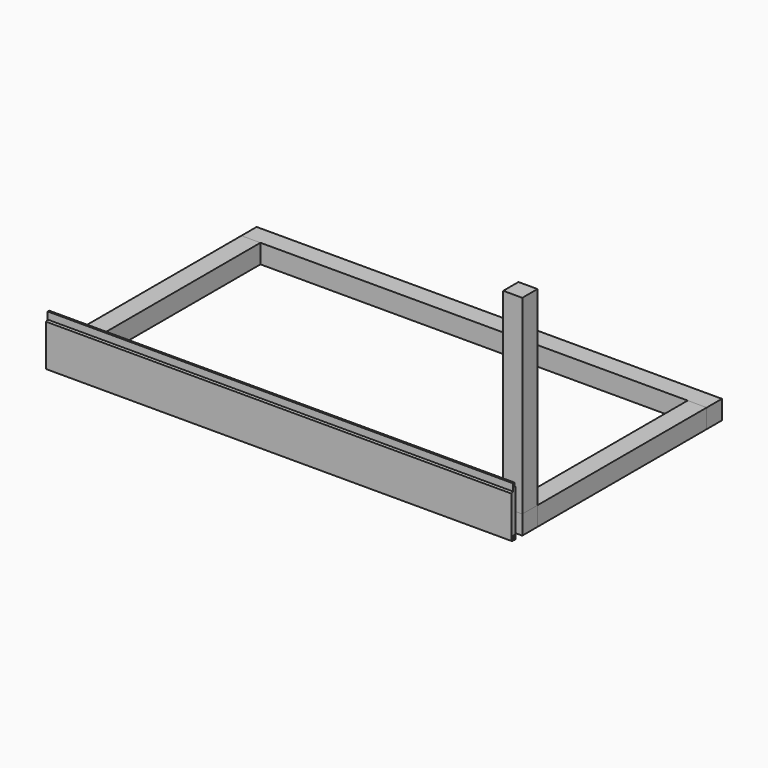
from build123d import *

# Parameters (mm, degrees)
F0_W      = 45
F0_H      = 45
F1_DEPTH  = 500
F2_W      = 45
F2_H      = 45
F3_DEPTH  = 1100
F5_W      = 45
F5_H      = 45
F6_DEPTH  = 1100
F9_W      = 45
F9_H      = 45
F10_DEPTH = 450
F12_DEPTH = 1100


with BuildPart() as f1:
    # F0 (on Front) → F1 (new body)
    with BuildSketch(Plane.XZ):
        with Locations((-22.5, -22.5)):
            Rectangle(F0_W, F0_H)
    extrude(amount=-F1_DEPTH)


with BuildPart() as f3:
    # F2 (on face) → F3 (new body)
    with BuildSketch(Plane.XY):
        with Locations((-22.5, -22.5)):
            Rectangle(F2_W, F2_H)
    extrude(amount=F3_DEPTH)


with BuildPart() as f6:
    # F5 (on Right) → F6 (new body)
    with BuildSketch(Plane.YZ):
        with Locations((-22.5, -22.5)):
            Rectangle(F5_W, F5_H)
    extrude(amount=-F6_DEPTH)


with BuildPart() as f7_1:
    # F7: copy of F6
    add(f6.part.moved(Location((0, 545, 0))))


with BuildPart() as f8_1:
    # F8: copy of F1
    add(f1.part.moved(Location((-1055, 0, 0))))


with BuildPart() as f10:
    # F9 (on Top) → F10 (new body)
    with BuildSketch(Plane.XY):
        with Locations((-22.5, -22.5)):
            Rectangle(F9_W, F9_H)
    extrude(amount=F10_DEPTH)


with BuildPart() as f12:
    # F11 (on Right) → F12 (new body)
    with BuildSketch(Plane.YZ):
        Polygon((-68.107228, -45), (-65.257228, -45), (-65.257228, 65), (-68.157228, 65), (-68.157228, 75), (-72.357228, 75), (-72.357228, 58), (-77.257228, 55.715092), (-77.257228, -42.924931), (-72.807228, -45), (-72.807228, -34), (-68.107228, -34), align=None)
    extrude(amount=-F12_DEPTH)


solid = Compound([f1.part, f6.part, f7_1.part, f8_1.part, f10.part, f12.part])
